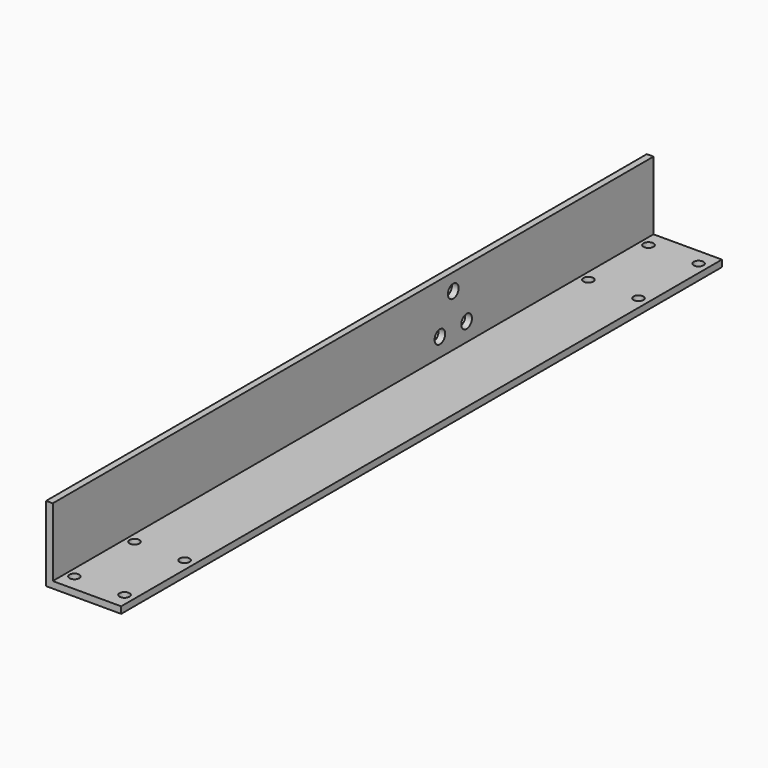
from build123d import *

# Parameters (mm, degrees)
F1_DEPTH = 225
F3_D     = 8
F5_D     = 5.9


with BuildPart() as f1:
    # F0 (on Front) → F1 (new body, symmetric)
    with BuildSketch(Plane.XZ):
        Polygon((-22.5, -22.5), (22.5, -22.5), (22.5, -18.5), (-18.5, -18.5), (-18.5, 22.5), (-22.5, 22.5), align=None)
    extrude(amount=F1_DEPTH, both=True)

    # F3 (through all)
    with Locations(Plane(origin=(-22.5, 0, 0), x_dir=(0, -1, 0), z_dir=(-1, 0, 0))):
        with Locations((-75, 12.5), (-85, -7.5), (-65, -7.5)):
            Hole(F3_D / 2)

    # F5 (through all)
    with Locations(Plane.XY.offset(-18.5)):
        with Locations((-13.5, -170), (16.5, -170), (16.5, -215), (-13.5, -215), (-13.5, 215), (16.5, 215), (16.5, 170), (-13.5, 170)):
            Hole(F5_D / 2)


solid = f1.part
